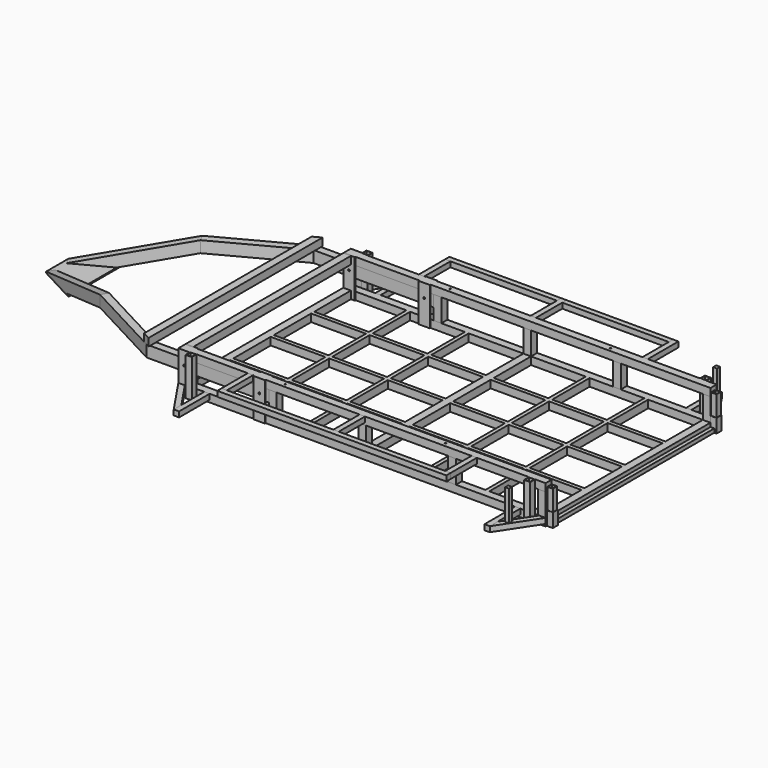
from build123d import *

# Parameters (mm, degrees)
F0_W      = 2400
F0_H      = 1400
F0_W_2    = 358.4
F0_H_2    = 25
F0_W_3    = 358.3
F1_DEPTH  = 50
F3_W      = 50
F3_H      = 50
F4_DEPTH  = 150
F6_W      = 50
F6_H      = 50
F6_W_2    = 2350
F7_DEPTH  = 50
F9_W      = 75
F9_H      = 6
F10_DEPTH = 250
F12_W     = 35
F12_H     = 35
F13_DEPTH = 250
F15_W     = 1500
F15_H     = 35
F16_DEPTH = 35
F18_DEPTH = 35
F19_W     = 40
F19_H     = 40
F19_W_2   = 35
F19_H_2   = 35
F20_DEPTH = 250
F22_DEPTH = 75
F25_W     = 50
F25_H     = 50
F26_DEPTH = 700
F28_DEPTH = 50
F29_R     = 6
F30_DEPTH = 900
F31_R     = 4.5
F32_DEPTH = 51
F36_DEPTH = 255
F37_W     = 25
F37_H     = 25
F38_DEPTH = 200
F40_W     = 1300
F40_H     = 25
F41_DEPTH = 25
F42_W     = 40
F42_H     = 40
F42_W_2   = 36
F42_H_2   = 36
F43_DEPTH = 90
F44_W     = 36
F44_H     = 36
F44_W_2   = 31
F44_H_2   = 31
F45_DEPTH = 225
F48_DEPTH = 50
F52_DEPTH = 8


with BuildPart() as f1:
    # F0 (on Top) → F1 (new body)
    with BuildSketch(Plane.XY):
        with Locations((1200, 0)):
            Rectangle(F0_W, F0_H)
        Polygon((50, 343.75), (50, 650), (408.3, 650), (433.3, 650), (791.7, 650), (816.7, 650), (1175, 650), (1225, 650), (1583.3, 650), (1608.3, 650), (1966.6, 650), (1991.6, 650), (2350, 650), (2350, 343.75), (2350, 318.75), (2350, 12.5), (2350, -12.5), (2350, -318.75), (2350, -343.75), (2350, -650), (1991.6, -650), (1966.6, -650), (1608.3, -650), (1583.3, -650), (1225, -650), (1175, -650), (816.7, -650), (791.7, -650), (433.3, -650), (408.3, -650), (50, -650), (50, -343.75), (50, -318.75), (50, -12.5), (50, 12.5), (50, 318.75), align=None, mode=Mode.SUBTRACT)
        with Locations((2170.8, 331.25)):
            Rectangle(F0_W_2, F0_H_2)
        Polygon((1991.6, 650), (1966.6, 650), (1966.6, 343.75), (1966.6, 318.75), (1966.6, 12.5), (1966.6, -12.5), (1966.6, -318.75), (1966.6, -343.75), (1966.6, -650), (1991.6, -650), (1991.6, -343.75), (1991.6, -318.75), (1991.6, -12.5), (1991.6, 12.5), (1991.6, 318.75), (1991.6, 343.75), align=None)
        with Locations((2170.8, 0)):
            Rectangle(F0_W_2, F0_H_2)
        with Locations((2170.8, -331.25)):
            Rectangle(F0_W_2, F0_H_2)
        with Locations((1787.45, -331.25)):
            Rectangle(F0_W_3, F0_H_2)
        Polygon((1608.3, 650), (1583.3, 650), (1583.3, 343.75), (1583.3, 318.75), (1583.3, 12.5), (1583.3, -12.5), (1583.3, -318.75), (1583.3, -343.75), (1583.3, -650), (1608.3, -650), (1608.3, -343.75), (1608.3, -318.75), (1608.3, -12.5), (1608.3, 12.5), (1608.3, 318.75), (1608.3, 343.75), align=None)
        with Locations((1787.45, 0)):
            Rectangle(F0_W_3, F0_H_2)
        with Locations((1787.45, 331.25)):
            Rectangle(F0_W_3, F0_H_2)
        Polygon((1225, 650), (1175, 650), (1175, 343.75), (1175, 318.75), (1175, 12.5), (1175, -12.5), (1175, -318.75), (1175, -343.75), (1175, -650), (1225, -650), (1225, -343.75), (1225, -318.75), (1225, -12.5), (1225, 12.5), (1225, 318.75), (1225, 343.75), align=None)
        Polygon((816.7, 650), (791.7, 650), (791.7, 343.75), (791.7, 318.75), (791.7, 12.5), (791.7, -12.5), (791.7, -318.75), (791.7, -343.75), (791.7, -650), (816.7, -650), (816.7, -343.75), (816.7, -318.75), (816.7, -12.5), (816.7, 12.5), (816.7, 318.75), (816.7, 343.75), align=None)
        with Locations((995.85, -331.25)):
            Rectangle(F0_W_3, F0_H_2)
        with Locations((1404.15, -331.25)):
            Rectangle(F0_W_3, F0_H_2)
        with Locations((1404.15, 0)):
            Rectangle(F0_W_3, F0_H_2)
        with Locations((995.85, 0)):
            Rectangle(F0_W_3, F0_H_2)
        with Locations((1404.15, 331.25)):
            Rectangle(F0_W_3, F0_H_2)
        with Locations((995.85, 331.25)):
            Rectangle(F0_W_3, F0_H_2)
        Polygon((433.3, 650), (408.3, 650), (408.3, 343.75), (408.3, 318.75), (408.3, 12.5), (408.3, -12.5), (408.3, -318.75), (408.3, -343.75), (408.3, -650), (433.3, -650), (433.3, -343.75), (433.3, -318.75), (433.3, -12.5), (433.3, 12.5), (433.3, 318.75), (433.3, 343.75), align=None)
        with Locations((229.15, 331.25)):
            Rectangle(F0_W_3, F0_H_2)
        with Locations((612.5, 331.25)):
            Rectangle(F0_W_2, F0_H_2)
        with Locations((229.15, 0)):
            Rectangle(F0_W_3, F0_H_2)
        with Locations((612.5, 0)):
            Rectangle(F0_W_2, F0_H_2)
        with Locations((229.15, -331.25)):
            Rectangle(F0_W_3, F0_H_2)
        with Locations((612.5, -331.25)):
            Rectangle(F0_W_2, F0_H_2)
    extrude(amount=F1_DEPTH)

    # F19 (on offset) → F36 (cut)
    with BuildSketch(Plane.XY.offset(250)):
        with Locations((95, -720)):
            Rectangle(F19_W, F19_H)
        with Locations((95, -720)):
            Rectangle(F19_W_2, F19_H_2, mode=Mode.SUBTRACT)
        with Locations((2311.6642157579, -720)):
            Rectangle(F19_W, F19_H)
        with Locations((2311.6642157579, -720)):
            Rectangle(F19_W_2, F19_H_2, mode=Mode.SUBTRACT)
    extrude(amount=F36_DEPTH, mode=Mode.SUBTRACT)

    # F40 (on offset) → F41 (join)
    with BuildSketch(Plane.YZ.offset(2400)):
        with Locations((0, 12.5)):
            Rectangle(F40_W, F40_H)
    extrude(amount=F41_DEPTH)


with BuildPart() as f4:
    # F3 (on offset) → F4 (new body)
    with BuildSketch(Plane.XY.offset(50)):
        with Locations((612.5, -675)):
            Rectangle(F3_W, F3_H)
    extrude(amount=F4_DEPTH)


with BuildPart() as f4b:
    # F3 (on offset) → F4, piece 2 (new body)
    with BuildSketch(Plane.XY.offset(50)):
        with Locations((1200, -675)):
            Rectangle(F3_W, F3_H)
    extrude(amount=F4_DEPTH)


with BuildPart() as f4c:
    # F3 (on offset) → F4, piece 3 (new body)
    with BuildSketch(Plane.XY.offset(50)):
        with Locations((1787.5, -675)):
            Rectangle(F3_W, F3_H)
    extrude(amount=F4_DEPTH)


with BuildPart() as f4d:
    # F3 (on offset) → F4, piece 4 (new body)
    with BuildSketch(Plane.XY.offset(50)):
        with Locations((2375, -675)):
            Rectangle(F3_W, F3_H)
    extrude(amount=F4_DEPTH)


with BuildPart() as f7:
    # F6 (on offset) → F7 (new body)
    with BuildSketch(Plane.XY.offset(200)):
        with Locations((2375, -675)):
            Rectangle(F6_W, F6_H)
        with Locations((1175, -675)):
            Rectangle(F6_W_2, F6_H)
    extrude(amount=F7_DEPTH)


with BuildPart() as f10:
    # F9 (on offset) → F10 (new body)
    with BuildSketch(Plane.XY.offset(250)):
        with Locations((37.5, -703)):
            Rectangle(F9_W, F9_H)
    extrude(amount=-F10_DEPTH)


with BuildPart() as f10b:
    # F9 (on offset) → F10, piece 2 (new body)
    with BuildSketch(Plane.XY.offset(250)):
        with Locations((37.5, -647)):
            Rectangle(F9_W, F9_H)
    extrude(amount=-F10_DEPTH)


with BuildPart() as f10c:
    # F9 (on offset) → F10, piece 3 (new body)
    with BuildSketch(Plane.XY.offset(250)):
        with Locations((530, -647)):
            Rectangle(F9_W, F9_H)
    extrude(amount=-F10_DEPTH)


with BuildPart() as f10d:
    # F9 (on offset) → F10, piece 4 (new body)
    with BuildSketch(Plane.XY.offset(250)):
        with Locations((530, -703)):
            Rectangle(F9_W, F9_H)
    extrude(amount=-F10_DEPTH)


with BuildPart() as f13:
    # F12 (on offset) → F13 (new body)
    with BuildSketch(Plane.XZ.offset(700)):
        with Locations((1200, 232.5)):
            Rectangle(F12_W, F12_H)
    extrude(amount=F13_DEPTH)


with BuildPart() as f13b:
    # F12 (on offset) → F13, piece 2 (new body)
    with BuildSketch(Plane.XZ.offset(700)):
        with Locations((467.5, 232.5)):
            Rectangle(F12_W, F12_H)
    extrude(amount=F13_DEPTH)


with BuildPart() as f13c:
    # F12 (on offset) → F13, piece 3 (new body)
    with BuildSketch(Plane.XZ.offset(700)):
        with Locations((1932.5, 232.5)):
            Rectangle(F12_W, F12_H)
    extrude(amount=F13_DEPTH)


with BuildPart() as f13d:
    # F12 (on offset) → F13, piece 4 (new body)
    with BuildSketch(Plane.XZ.offset(700)):
        with Locations((182.5, 32.5)):
            Rectangle(F12_W, F12_H)
    extrude(amount=F13_DEPTH)


with BuildPart() as f13e:
    # F12 (on offset) → F13, piece 5 (new body)
    with BuildSketch(Plane.XZ.offset(700)):
        with Locations((2217.5, 32.5)):
            Rectangle(F12_W, F12_H)
    extrude(amount=F13_DEPTH)


with BuildPart() as f16:
    # F15 (on offset) → F16 (new body)
    with BuildSketch(Plane.XZ.offset(950)):
        with Locations((1200, 232.5)):
            Rectangle(F15_W, F15_H)
    extrude(amount=-F16_DEPTH)


with BuildPart() as f18:
    # F17 (on offset) → F18 (new body)
    with BuildSketch(Plane.XY.offset(50)):
        Polygon((42.2513405231, -706), (0, -706), (165, -950), (165, -887.5192297719), align=None)
    extrude(amount=-F18_DEPTH)


with BuildPart() as f18b:
    # F17 (on offset) → F18, piece 2 (new body)
    with BuildSketch(Plane.XY.offset(50)):
        Polygon((2235, -886.4609329665), (2235, -950), (2400, -700), (2358.0642157579, -700), align=None)
    extrude(amount=-F18_DEPTH)


with BuildPart() as f20:
    # F19 (on offset) → F20 (new body)
    with BuildSketch(Plane.XY.offset(250)):
        with Locations((95, -720)):
            Rectangle(F19_W, F19_H)
        with Locations((95, -720)):
            Rectangle(F19_W_2, F19_H_2, mode=Mode.SUBTRACT)
    extrude(amount=-F20_DEPTH)


with BuildPart() as f20b:
    # F19 (on offset) → F20, piece 2 (new body)
    with BuildSketch(Plane.XY.offset(250)):
        with Locations((2311.6642157579, -720)):
            Rectangle(F19_W, F19_H)
        with Locations((2311.6642157579, -720)):
            Rectangle(F19_W_2, F19_H_2, mode=Mode.SUBTRACT)
    extrude(amount=-F20_DEPTH)


with BuildPart() as f22:
    # F21 (on offset) → F22 (new body)
    with BuildSketch(Plane.XY.offset(200)):
        Polygon((587.5, -700), (587.5, -650), (-200.2241870348, -650), (-718.985564753, -374.1696826855), (-742.4591428923, -418.3170623285), (-212.690587177, -700), align=None)
    extrude(amount=-F22_DEPTH)


with BuildPart() as f23_1:
    # F23: instance of F22
    add(f22.part.mirror(Plane.XZ))


with BuildPart() as f24_1:
    # F24: instance of F7
    add(f7.part.mirror(Plane.XZ))


with BuildPart() as f24_2:
    # F24: instance of F10b
    add(f10b.part.mirror(Plane.XZ))


with BuildPart() as f24_3:
    # F24: instance of F10
    add(f10.part.mirror(Plane.XZ))


with BuildPart() as f24_4:
    # F24: instance of F18
    add(f18.part.mirror(Plane.XZ))


with BuildPart() as f24_5:
    # F24: instance of F13d
    add(f13d.part.mirror(Plane.XZ))


with BuildPart() as f24_6:
    # F24: instance of F10d
    add(f10d.part.mirror(Plane.XZ))


with BuildPart() as f24_7:
    # F24: instance of F10c
    add(f10c.part.mirror(Plane.XZ))


with BuildPart() as f24_8:
    # F24: instance of F13b
    add(f13b.part.mirror(Plane.XZ))


with BuildPart() as f24_9:
    # F24: instance of F16
    add(f16.part.mirror(Plane.XZ))


with BuildPart() as f24_10:
    # F24: instance of F13
    add(f13.part.mirror(Plane.XZ))


with BuildPart() as f24_11:
    # F24: instance of F20
    add(f20.part.mirror(Plane.XZ))


with BuildPart() as f24_12:
    # F24: instance of F18b
    add(f18b.part.mirror(Plane.XZ))


with BuildPart() as f24_13:
    # F24: instance of F13e
    add(f13e.part.mirror(Plane.XZ))


with BuildPart() as f24_14:
    # F24: instance of F20b
    add(f20b.part.mirror(Plane.XZ))


with BuildPart() as f24_15:
    # F24: instance of F4d
    add(f4d.part.mirror(Plane.XZ))


with BuildPart() as f24_16:
    # F24: instance of F4c
    add(f4c.part.mirror(Plane.XZ))


with BuildPart() as f24_17:
    # F24: instance of F4b
    add(f4b.part.mirror(Plane.XZ))


with BuildPart() as f24_18:
    # F24: instance of F4
    add(f4.part.mirror(Plane.XZ))


with BuildPart() as f24_19:
    # F24: instance of F13c
    add(f13c.part.mirror(Plane.XZ))


with BuildPart() as f26:
    # F25 (on Front) → F26 (new body, symmetric)
    with BuildSketch(Plane.XZ):
        with Locations((25, 225)):
            Rectangle(F25_W, F25_H)
    extrude(amount=F26_DEPTH, both=True)


with BuildPart() as f28:
    # F27 (on offset) → F28 (new body)
    with BuildSketch(Plane.XY.offset(200)):
        Polygon((-190, -712.0647992119), (-190, 712.0647992119), (-240, 685.4793276288), (-240, -685.4793276288), align=None)
    extrude(amount=F28_DEPTH)


with BuildPart() as f30_tool:
    # F29 (on Front) → F30 (new body, symmetric)
    with BuildSketch(Plane.XZ):
        with Locations((37.5, 162.5)):
            Circle(F29_R)
        with Locations((530, 162.5)):
            Circle(F29_R)
    extrude(amount=F30_DEPTH, both=True)


with BuildPart() as f10_1:
    add(f10.part)

    # F30: cut by f30_tool
    add(f30_tool.part, mode=Mode.SUBTRACT)


with BuildPart() as f10b_1:
    add(f10b.part)

    # F30: cut by f30_tool
    add(f30_tool.part, mode=Mode.SUBTRACT)


with BuildPart() as f10c_1:
    add(f10c.part)

    # F30: cut by f30_tool
    add(f30_tool.part, mode=Mode.SUBTRACT)


with BuildPart() as f10d_1:
    add(f10d.part)

    # F30: cut by f30_tool
    add(f30_tool.part, mode=Mode.SUBTRACT)


with BuildPart() as f22_1:
    add(f22.part)

    # F30: cut by f30_tool
    add(f30_tool.part, mode=Mode.SUBTRACT)


with BuildPart() as f23_1_1:
    add(f23_1.part)

    # F30: cut by f30_tool
    add(f30_tool.part, mode=Mode.SUBTRACT)

    # F50: F48 across plane


with BuildPart() as f24_2_1:
    add(f24_2.part)

    # F30: cut by f30_tool
    add(f30_tool.part, mode=Mode.SUBTRACT)


with BuildPart() as f24_3_1:
    add(f24_3.part)

    # F30: cut by f30_tool
    add(f30_tool.part, mode=Mode.SUBTRACT)


with BuildPart() as f24_6_1:
    add(f24_6.part)

    # F30: cut by f30_tool
    add(f30_tool.part, mode=Mode.SUBTRACT)


with BuildPart() as f24_7_1:
    add(f24_7.part)

    # F30: cut by f30_tool
    add(f30_tool.part, mode=Mode.SUBTRACT)


with BuildPart() as f32_tool:
    # F31 (on offset) → F32 (new body)
    with BuildSketch(Plane.XY.offset(250)):
        with Locations((675, 675)):
            Circle(F31_R)
        with Locations((1725, 675)):
            Circle(F31_R)
        with Locations((675, -675)):
            Circle(F31_R)
        with Locations((1725, -675)):
            Circle(F31_R)
    extrude(amount=-F32_DEPTH)


with BuildPart() as f7_1:
    add(f7.part)

    # F32: cut by f32_tool
    add(f32_tool.part, mode=Mode.SUBTRACT)


with BuildPart() as f24_1_1:
    add(f24_1.part)

    # F32: cut by f32_tool
    add(f32_tool.part, mode=Mode.SUBTRACT)


with BuildPart() as f38:
    # F37 (on offset) → F38 (new body)
    with BuildSketch(Plane.XY.offset(50)):
        with Locations((2279.1642157579, -851.6451276395)):
            Rectangle(F37_W, F37_H)
    extrude(amount=F38_DEPTH)


with BuildPart() as f38b:
    # F37 (on offset) → F38, piece 2 (new body)
    with BuildSketch(Plane.XY.offset(50)):
        with Locations((2279.1642157579, 851.6451276395)):
            Rectangle(F37_W, F37_H)
    extrude(amount=F38_DEPTH)


with BuildPart() as f43:
    # F42 (on Top) → F43 (new body)
    with BuildSketch(Plane.XY):
        with Locations((2420, -670)):
            Rectangle(F42_W, F42_H)
        with Locations((2420, -670)):
            Rectangle(F42_W_2, F42_H_2, mode=Mode.SUBTRACT)
    extrude(amount=F43_DEPTH)


with BuildPart() as f43b:
    # F42 (on Top) → F43, piece 2 (new body)
    with BuildSketch(Plane.XY):
        with Locations((2420, 670)):
            Rectangle(F42_W, F42_H)
        with Locations((2420, 670)):
            Rectangle(F42_W_2, F42_H_2, mode=Mode.SUBTRACT)
    extrude(amount=F43_DEPTH)


with BuildPart() as f45:
    # F44 (on Top) → F45 (new body)
    with BuildSketch(Plane.XY):
        with Locations((2420, -670)):
            Rectangle(F44_W, F44_H)
        with Locations((2420, -670)):
            Rectangle(F44_W_2, F44_H_2, mode=Mode.SUBTRACT)
    extrude(amount=F45_DEPTH)


with BuildPart() as f45b:
    # F44 (on Top) → F45, piece 2 (new body)
    with BuildSketch(Plane.XY):
        with Locations((2420, 670)):
            Rectangle(F44_W, F44_H)
        with Locations((2420, 670)):
            Rectangle(F44_W_2, F44_H_2, mode=Mode.SUBTRACT)
    extrude(amount=F45_DEPTH)


with BuildPart() as f48:
    # F47 (on offset) → F48 (new body)
    with BuildSketch(Plane(origin=(-337.0409104906, -633.881760264, 0), x_dir=(0.8829475929, -0.4694715628, 0), z_dir=(-0.4694715628, -0.8829475929, 0))):
        Polygon((-895.0913535016, 0), (-459.1645480215, 125), (-459.1645480215, 200), (-1156.6474367897, 0), align=None)
    extrude(amount=-F48_DEPTH)


with BuildPart() as f23_1_2:
    add(f23_1_1.part)
    add(f48.part.mirror(Plane.XZ))


with BuildPart() as f52:
    # F51 (on Top) → F52 (new body)
    with BuildSketch(Plane.XY):
        Polygon((-1358.2999805905, 90.8686805221), (-1358.2999805905, -90.8686805221), (-1103.8860883144, -226.142946591), (-1103.8860883144, 226.142946591), align=None)
    extrude(amount=-F52_DEPTH)


solid = Compound([f1.part, f4.part, f4b.part, f4c.part, f4d.part, f13.part, f13b.part, f13c.part, f13d.part, f13e.part, f16.part, f18.part, f18b.part, f20.part, f20b.part, f24_4.part, f24_5.part, f24_8.part, f24_9.part, f24_10.part, f24_11.part, f24_12.part, f24_13.part, f24_14.part, f24_15.part, f24_16.part, f24_17.part, f24_18.part, f24_19.part, f26.part, f28.part, f10_1.part, f10b_1.part, f10c_1.part, f10d_1.part, f22_1.part, f24_2_1.part, f24_3_1.part, f24_6_1.part, f24_7_1.part, f7_1.part, f24_1_1.part, f38.part, f38b.part, f43.part, f43b.part, f45.part, f45b.part, f48.part, f23_1_2.part, f52.part])
